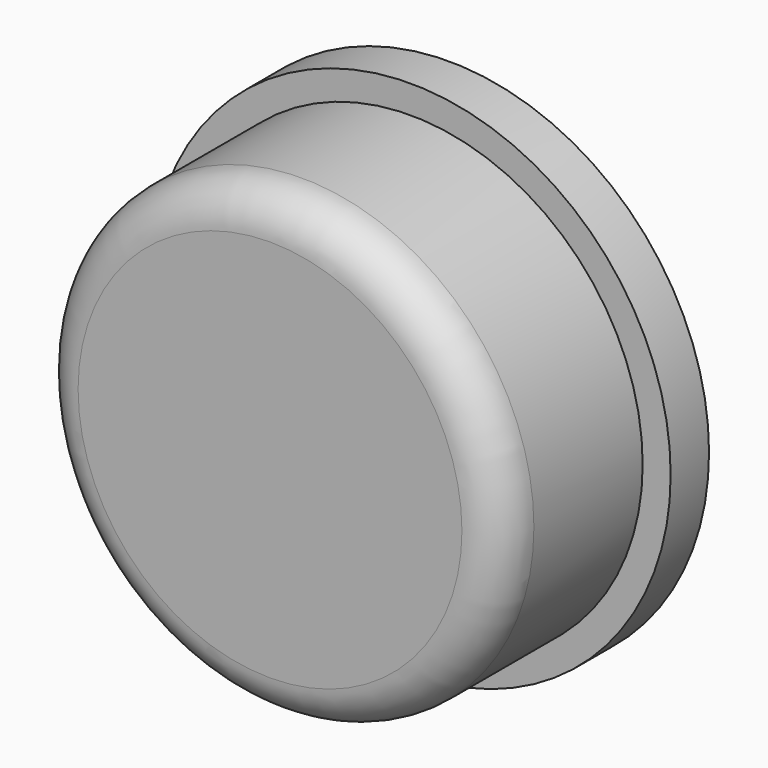
from build123d import *

# Parameters (mm, degrees)
SKETCH070_R  = 6.5
PAD_DEPTH    = 1.2
SKETCH069_R  = 5.8
PAD001_DEPTH = 5.6
SKETCH071_R  = 5
POCKET_DEPTH = 3.5
FILLET_R     = 1


with BuildPart() as part:
    # Sketch070 → Pad (new body)
    with BuildSketch(Plane.XZ):
        Circle(SKETCH070_R)
    extrude(amount=PAD_DEPTH)

    # Sketch069 → Pad001 (join)
    with BuildSketch(Plane.XZ):
        Circle(SKETCH069_R)
    extrude(amount=PAD001_DEPTH)

    # Sketch071 → Pocket (cut, symmetric)
    with BuildSketch(Plane.XZ):
        Circle(SKETCH071_R)
    extrude(amount=POCKET_DEPTH, both=True, mode=Mode.SUBTRACT)

    # Fillet
    fillet_edges = [part.edges().sort_by_distance(p)[0] for p in [
        (-5.8, -5.6, 0),
    ]]
    fillet(fillet_edges, radius=FILLET_R)


solid = part.part
